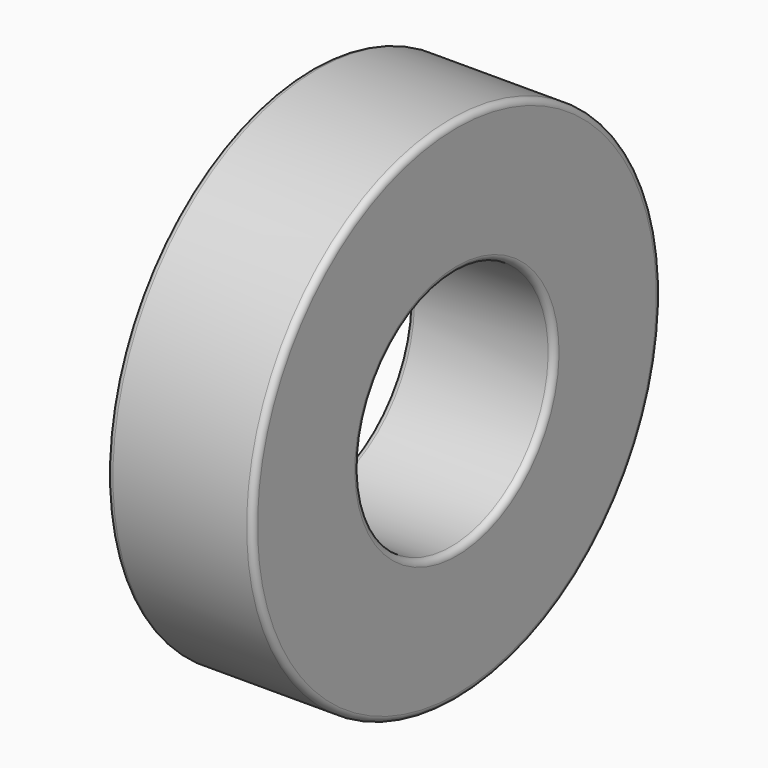
from build123d import *

# Parameters (mm, degrees)
F0_W = 12
F0_H = 11
F2_R = 0.5


with BuildPart() as f1:
    # F0 (on Front) → F1 (revolve)
    with BuildSketch(Plane.XZ):
        with Locations((6.26556, 15.5)):
            Rectangle(F0_W, F0_H)
    revolve(axis=Axis((2.772328, 0, 0), (1, 0, 0)))

    # F2
    f2_edges = [f1.edges().sort_by_distance(p)[0] for p in [
        (12.26556, 0, -21),
        (0.26556, 0, -21),
        (6.26556, 0, 21),
        (0.26556, 0, -10),
        (12.26556, 0, -10),
        (6.26556, 0, 10),
    ]]
    fillet(f2_edges, radius=F2_R)


solid = f1.part
